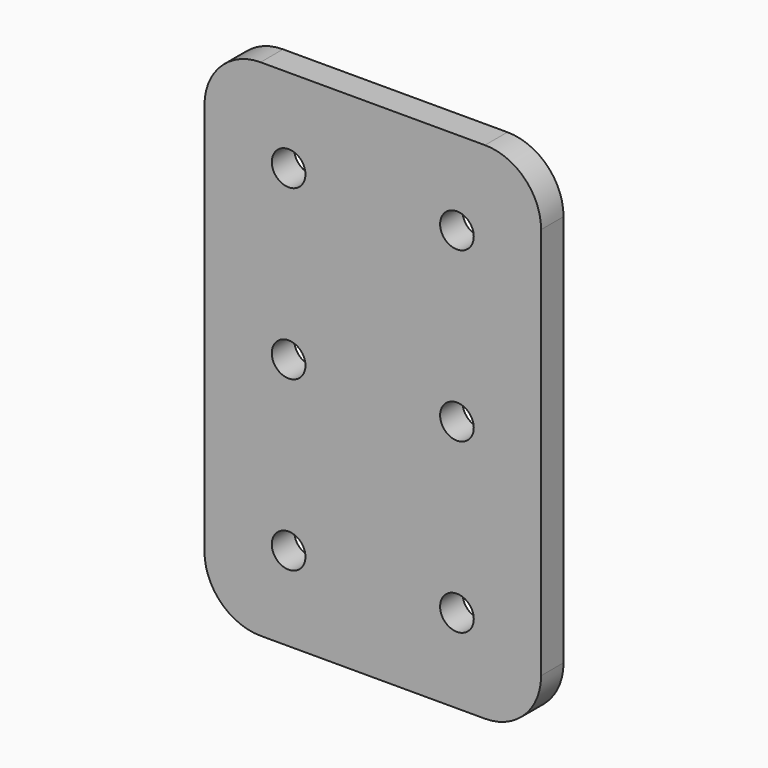
from build123d import *

# Parameters (mm, degrees)
F0_R     = 3
F1_DEPTH = 5


with BuildPart() as f1:
    # F0 (on Front) → F1 (new body)
    with BuildSketch(Plane.XZ):
        with BuildLine():
            Line((20, 45), (-20, 45))
            ThreePointArc((-20, 45), (-27.071068, 42.071068), (-30, 35))
            Line((-30, 35), (-30, -35))
            ThreePointArc((-30, -35), (-27.071068, -42.071068), (-20, -45))
            Line((-20, -45), (20, -45))
            ThreePointArc((20, -45), (27.071068, -42.071068), (30, -35))
            Line((30, -35), (30, 35))
            ThreePointArc((30, 35), (27.071068, 42.071068), (20, 45))
        make_face()
        with Locations((-15, -30)):
            Circle(F0_R, mode=Mode.SUBTRACT)
        with Locations((15, -30)):
            Circle(F0_R, mode=Mode.SUBTRACT)
        with Locations((-15, 0)):
            Circle(F0_R, mode=Mode.SUBTRACT)
        with Locations((-15, 30)):
            Circle(F0_R, mode=Mode.SUBTRACT)
        with Locations((15, 0)):
            Circle(F0_R, mode=Mode.SUBTRACT)
        with Locations((15, 30)):
            Circle(F0_R, mode=Mode.SUBTRACT)
    extrude(amount=F1_DEPTH)


solid = f1.part
